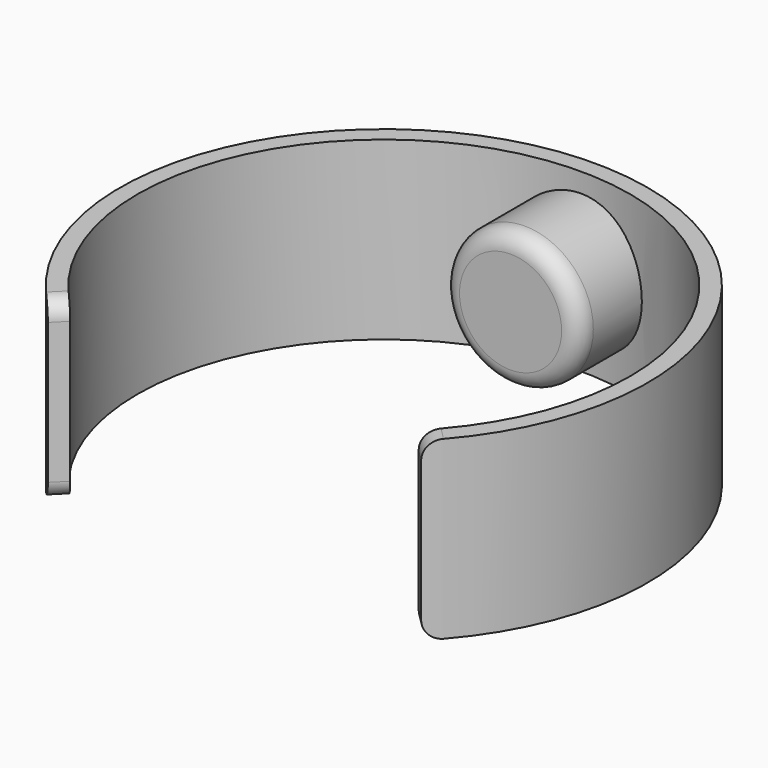
from build123d import *

# Parameters (mm, degrees)
CYLINDER_W        = 15
CYLINDER_H        = 10
CYLINDER_ANGLE    = 270
CYLINDER001_W     = 14
CYLINDER001_H     = 10
CYLINDER001_ANGLE = 270
CYLINDER002_R     = 3.9
CYLINDER002_DEPTH = 5
FILLET_R          = 1
FILLET001_R       = 1


with BuildPart() as part:
    # Cylinder → Cylinder (revolve)
    with BuildSketch(Plane(origin=(0, 0, 0), x_dir=(0.707107, -0.707107, 0), z_dir=(-0.707107, -0.707107, 0))):
        with Locations((7.5, 5)):
            Rectangle(CYLINDER_W, CYLINDER_H)
    revolve(axis=Axis((0, 0, 0), (0, 0, 1)), revolution_arc=CYLINDER_ANGLE)

    # Cylinder001 → Cylinder001 (revolve, cut)
    with BuildSketch(Plane(origin=(0, 0, 0), x_dir=(0.707107, -0.707107, 0), z_dir=(-0.707107, -0.707107, 0))):
        with Locations((7, 5)):
            Rectangle(CYLINDER001_W, CYLINDER001_H)
    revolve(axis=Axis((0, 0, 0), (0, 0, 1)), revolution_arc=CYLINDER001_ANGLE, mode=Mode.SUBTRACT)

    # Cylinder002 → Cylinder002 (join)
    with BuildSketch(Plane(origin=(0, 14, 5), x_dir=(1, 0, 0), z_dir=(0, -1, 0))):
        Circle(CYLINDER002_R)
    extrude(amount=CYLINDER002_DEPTH)

    # Fillet
    fillet_edges = [part.edges().sort_by_distance(p)[0] for p in [
        (-3.9, 9, 5),
    ]]
    fillet(fillet_edges, radius=FILLET_R)

    # Fillet001
    fillet001_edges = [part.edges().sort_by_distance(p)[0] for p in [
        (-10.253048, -10.253048, 10),
        (-10.253048, -10.253048, 0),
        (10.253048, -10.253048, 0),
        (10.253048, -10.253048, 10),
    ]]
    fillet(fillet001_edges, radius=FILLET001_R)


solid = part.part
